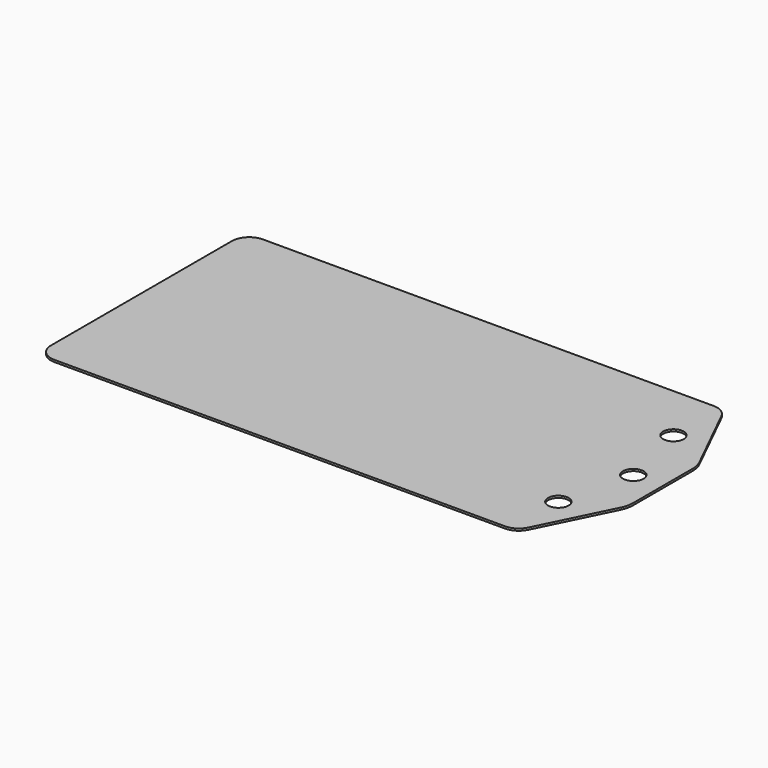
from build123d import *

# Parameters (mm, degrees)
F0_R     = 3.005
F1_DEPTH = 0.6


with BuildPart() as f1:
    # F0 (on Top) → F1 (new body)
    with BuildSketch(Plane.XY):
        with BuildLine():
            ThreePointArc((-77.181712, -36.445587), (-75.717246, -39.981121), (-72.181712, -41.445587))
            Line((-72.181712, -41.445587), (59.230557, -41.445587))
            ThreePointArc((59.230557, -41.445587), (61.871993, -40.690915), (63.716063, -38.654711))
            Line((63.716063, -38.654711), (73.995098, -17.783695))
            ThreePointArc((73.995098, -17.783695), (74.609773, -16.063691), (74.818288, -14.249095))
            Line((74.818288, -14.249095), (74.818288, -3.445587))
            Line((74.818288, -3.445587), (74.818288, 7.357922))
            ThreePointArc((74.818288, 7.357922), (74.609773, 9.172518), (73.995098, 10.892521))
            Line((73.995098, 10.892521), (63.716063, 31.763538))
            ThreePointArc((63.716063, 31.763538), (61.871993, 33.799742), (59.230557, 34.554413))
            Line((59.230557, 34.554413), (-72.181712, 34.554413))
            ThreePointArc((-72.181712, 34.554413), (-75.717246, 33.089947), (-77.181712, 29.554413))
            Line((-77.181712, 29.554413), (-77.181712, -3.445587))
            Line((-77.181712, -3.445587), (-77.181712, -36.445587))
        make_face()
        with Locations((61.12795, -24.413323)):
            Circle(F0_R, mode=Mode.SUBTRACT)
        with Locations((66.204288, -3.445587)):
            Circle(F0_R, mode=Mode.SUBTRACT)
        with Locations((61.12795, 17.52215)):
            Circle(F0_R, mode=Mode.SUBTRACT)
    extrude(amount=F1_DEPTH)


solid = f1.part
